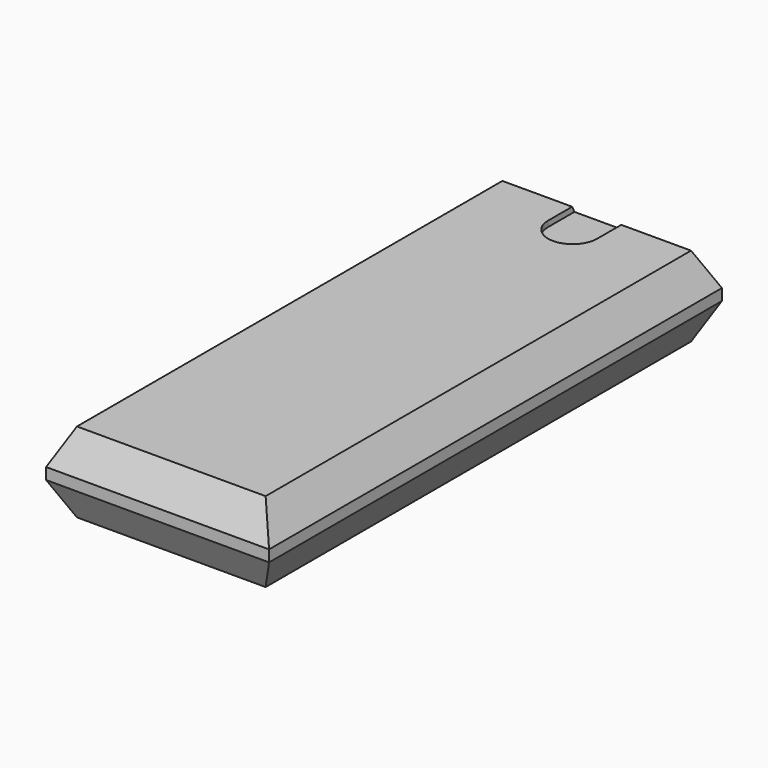
from build123d import *

# Parameters (mm, degrees)
SKETCH_W        = 3.9
SKETCH_H        = 9.9
PAD_DEPTH       = 1.4
POCKET_DEPTH    = 9.901
POCKET001_DEPTH = 3.901
POCKET002_DEPTH = 0.1


with BuildPart() as part:
    # Sketch → Pad (new body)
    with BuildSketch(Plane.XY):
        Rectangle(SKETCH_W, SKETCH_H)
    extrude(amount=PAD_DEPTH)

    # Sketch001 (on Face3 of Pad) → Pocket (cut, through all)
    with BuildSketch(Plane.XZ.offset(4.95)):
        Polygon((-1.95, 0.6), (-1.65, 0), (-1.95, 0), align=None)
        Polygon((1.65, 0), (1.95, 0), (1.95, 0.6), align=None)
        Polygon((1.95, 1.4), (1.65, 1.4), (1.95, 0.8), align=None)
        Polygon((-1.95, 1.4), (-1.65, 1.4), (-1.95, 0.8), align=None)
    extrude(amount=-POCKET_DEPTH, mode=Mode.SUBTRACT)

    # Sketch002 (on Face5 of Pocket) → Pocket001 (cut, through all)
    with BuildSketch(Plane.YZ.offset(1.95)):
        Polygon((4.95, 0.8), (4.65, 1.4), (4.95, 1.4), align=None)
        Polygon((4.95, 0.6), (4.65, 0), (4.95, 0), align=None)
        Polygon((-4.95, 0.8), (-4.95, 1.4), (-4.65, 1.4), align=None)
        Polygon((-4.95, 0.6), (-4.95, 0), (-4.65, 0), align=None)
    extrude(amount=-POCKET001_DEPTH, mode=Mode.SUBTRACT)

    # Sketch003 (on Face11 of Pocket001) → Pocket002 (cut)
    with BuildSketch(Plane.XY.offset(1.4)):
        with BuildLine():
            ThreePointArc((-0.429098, 4.124211), (0, 3.695113), (0.429098, 4.124211))
            Line((0.429098, 4.124211), (0.429098, 5.299881))
            ThreePointArc((0.429098, 5.299881), (0, 5.728979), (-0.429098, 5.299881))
            Line((-0.429098, 4.124211), (-0.429098, 5.299881))
        make_face()
    extrude(amount=-POCKET002_DEPTH, mode=Mode.SUBTRACT)


with BuildPart() as part_1:
    # Body placement: moved
    add(part.part.moved(Location((0, 0, 0.1))))


solid = part_1.part
